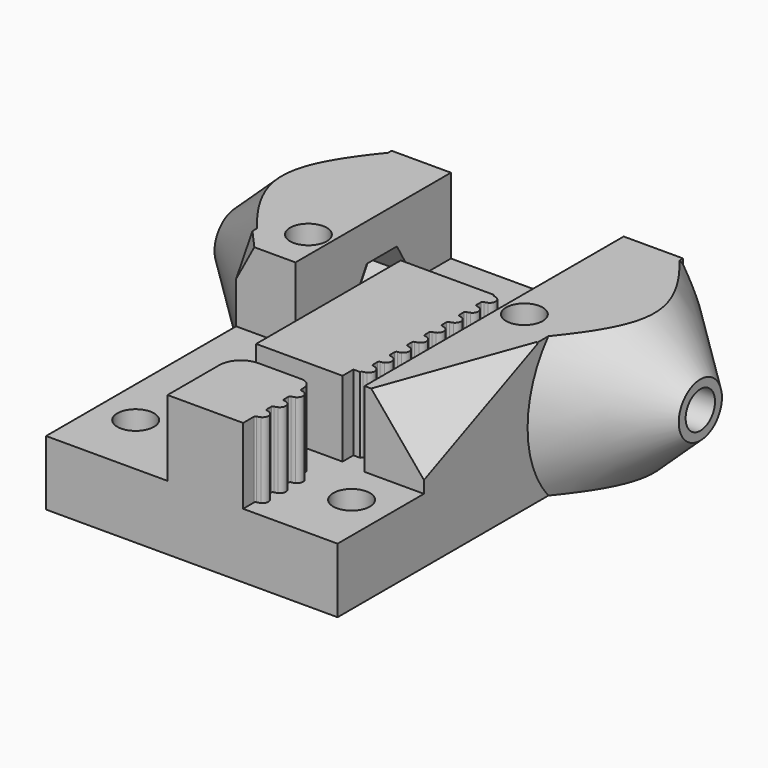
from build123d import *

# Parameters (mm, degrees)
SKETCH064_R          = 1.7
PAD017_DEPTH         = 13
POCKET034_DEPTH      = 7
POCKET035_DEPTH      = 8
POCKET036_DEPTH      = 8
SKETCH069_R          = 2.5
SKETCH070_R          = 10
SKETCH072_R          = 10
SKETCH071_R          = 2.5
SKETCH066_R          = 1.7
POCKET037_DEPTH      = 21.5010001
POCKET037_DEPTH_BACK = 21.5010001
SKETCH073_W          = 57.890867
SKETCH073_H          = 28.005435
SKETCH073_W_2        = 40
SKETCH073_H_2        = 13
POCKET038_DEPTH      = 21.5010001
POCKET038_DEPTH_BACK = 21.5010001
SKETCH074_W          = 10.751613
SKETCH074_H          = 15.361299
POCKET039_DEPTH      = 5
SKETCH075_W          = 5.428132
SKETCH075_H          = 4.529939
POCKET040_DEPTH      = 5
FILLET012_R          = 2
FILLET013_R          = 1


with BuildPart() as part:
    # Sketch064 → Pad017 (new body)
    with BuildSketch(Plane.XY):
        Polygon((-13.5, -16), (13.5, -16), (13.5, 6), (13.5, 24), (-13.5, 24), (-13.5, 6), align=None)
        with Locations((10, 10)):
            Circle(SKETCH064_R, mode=Mode.SUBTRACT)
        with Locations((-10, 10)):
            Circle(SKETCH064_R, mode=Mode.SUBTRACT)
        with Locations((-10, -10)):
            Circle(SKETCH064_R, mode=Mode.SUBTRACT)
        with Locations((10, -10)):
            Circle(SKETCH064_R, mode=Mode.SUBTRACT)
    extrude(amount=PAD017_DEPTH)

    # Sketch065 → Pocket034 (cut)
    with BuildSketch(Plane.XY.offset(13)):
        with BuildLine():
            Line((-2.25, -16), (-2.25, -8))
            Line((-2.25, -8), (4.25, -8))
            Line((4.25, -8), (4.75, -8))
            Line((4.75, -8), (4.75, -9.2530602323))
            ThreePointArc((4.75, -9.2530602323), (4.7888446964, -9.3567216153), (4.8862469586, -9.4093276235))
            ThreePointArc((5.1882022472, -9.5011261235), (5.0408688943, -9.4432396073), (4.8862469586, -9.4093276235))
            ThreePointArc((5.1882022472, -10.4988789324), (5.5, -10.0000025279), (5.1882022472, -9.5011261235))
            ThreePointArc((4.8804347826, -10.5914594193), (5.038062154, -10.5576142423), (5.1882022472, -10.4988789324))
            ThreePointArc((4.8804347826, -10.5914594193), (4.7872285883, -10.641270882), (4.75, -10.740177953))
            Line((4.75, -10.740177953), (4.75, -11.259822047))
            ThreePointArc((4.75, -11.259822047), (4.7872285883, -11.358729118), (4.8804347826, -11.4085405807))
            ThreePointArc((5.1882022472, -11.5011210676), (5.038062154, -11.4423857578), (4.8804347826, -11.4085405807))
            ThreePointArc((5.1882022472, -12.4988738766), (5.5, -11.9999974721), (5.1882022472, -11.5011210676))
            ThreePointArc((4.8804347826, -12.5914543635), (5.038062154, -12.5576091865), (5.1882022472, -12.4988738766))
            ThreePointArc((4.8804347826, -12.5914543635), (4.7872285883, -12.6412658262), (4.75, -12.7401728972))
            Line((4.75, -12.7401728972), (4.75, -13.259822047))
            ThreePointArc((4.75, -13.259822047), (4.7872285883, -13.358729118), (4.8804347826, -13.4085405807))
            ThreePointArc((5.1882022472, -13.5011210676), (5.038062154, -13.4423857578), (4.8804347826, -13.4085405807))
            ThreePointArc((5.1882022472, -14.4988738766), (5.5, -13.9999974721), (5.1882022472, -13.5011210676))
            ThreePointArc((4.8804347826, -14.5914543635), (5.038062154, -14.5576091865), (5.1882022472, -14.4988738766))
            ThreePointArc((4.8804347826, -14.5914543635), (4.7872285871, -14.6412658275), (4.75, -14.7401729006))
            Line((4.75, -14.7401729006), (4.75, -16))
            Line((4.75, -16), (13.5, -16))
            Line((13.5, -16), (13.5, -6))
            Line((13.5, -6), (8, -6))
            Line((8, -6), (8, 1))
            Line((8, 24), (8, 1))
            Line((8, 24), (-8, 24))
            Line((-8, 24), (-8, 6))
            Line((-8, 6), (-13.5, 6))
            Line((-13.5, 6), (-13.5, -16))
            Line((-13.5, -16), (-2.25, -16))
        make_face()
        with BuildLine():
            Line((-2.25, 11), (5.75, 11))
            Line((6.38, 11), (5.75, 11))
            ThreePointArc((6.38, 11), (6.4172285895, 10.9010929313), (6.5104347826, 10.8512814699))
            ThreePointArc((6.8182022472, 10.758700983), (6.668062154, 10.8174362929), (6.5104347826, 10.8512814699))
            ThreePointArc((6.8182022472, 9.760948174), (7.13, 10.2598245785), (6.8182022472, 10.758700983))
            ThreePointArc((6.5104347826, 9.6683676871), (6.668062154, 9.7022128642), (6.8182022472, 9.760948174))
            ThreePointArc((6.5104347826, 9.6683676871), (6.4172285883, 9.6185562244), (6.38, 9.5196491534))
            Line((6.38, 9.5196491534), (6.38, 9.0000000036))
            ThreePointArc((6.38, 9.0000000036), (6.4172285883, 8.9010929326), (6.5104347826, 8.8512814699))
            ThreePointArc((6.8182022368, 8.7587009881), (6.6680621484, 8.8174362945), (6.5104347826, 8.8512814699))
            ThreePointArc((6.8182022368, 7.760948169), (7.13, 8.2598245785), (6.8182022368, 8.7587009881))
            ThreePointArc((6.5104347826, 7.6683676871), (6.6680621484, 7.7022128625), (6.8182022368, 7.760948169))
            ThreePointArc((6.5104347826, 7.6683676871), (6.4172285883, 7.6185562244), (6.38, 7.5196491534))
            Line((6.38, 7.5196491534), (6.38, 7.0000000036))
            ThreePointArc((6.38, 7.0000000036), (6.4172285883, 6.9010929326), (6.5104347826, 6.8512814699))
            ThreePointArc((6.8182022585, 6.7587009775), (6.66806216, 6.8174362911), (6.5104347826, 6.8512814699))
            ThreePointArc((6.8182022585, 5.7609481795), (7.13, 6.2598245785), (6.8182022585, 6.7587009775))
            ThreePointArc((6.5104347826, 5.6683676871), (6.66806216, 5.702212866), (6.8182022585, 5.7609481795))
            ThreePointArc((6.5104347826, 5.6683676871), (6.4172285883, 5.6185562244), (6.38, 5.5196491534))
            Line((6.38, 5.5196491534), (6.38, 5.0000000036))
            ThreePointArc((6.38, 5.0000000036), (6.4172285883, 4.9010929326), (6.5104347826, 4.8512814699))
            ThreePointArc((6.8182022472, 4.758700983), (6.668062154, 4.8174362929), (6.5104347826, 4.8512814699))
            ThreePointArc((6.8182022472, 3.760948174), (7.13, 4.2598245785), (6.8182022472, 4.758700983))
            ThreePointArc((6.5104347826, 3.6683676871), (6.668062154, 3.7022128642), (6.8182022472, 3.760948174))
            ThreePointArc((6.5104347826, 3.6683676871), (6.4172285883, 3.6185562244), (6.38, 3.5196491534))
            Line((6.38, 3.5196491534), (6.38, 3.0000000036))
            ThreePointArc((6.38, 3.0000000036), (6.4172285883, 2.9010929326), (6.5104347826, 2.8512814699))
            ThreePointArc((6.8182022472, 2.758700983), (6.668062154, 2.8174362929), (6.5104347826, 2.8512814699))
            ThreePointArc((6.8182022472, 1.760948174), (7.13, 2.2598245785), (6.8182022472, 2.758700983))
            ThreePointArc((6.5104347826, 1.6683676871), (6.668062154, 1.7022128642), (6.8182022472, 1.760948174))
            ThreePointArc((6.5104347826, 1.6683676871), (6.4172285883, 1.6185562244), (6.38, 1.5196491534))
            Line((6.38, 1.5196491534), (6.38, 1.0000000036))
            ThreePointArc((6.38, 1.0000000036), (6.4172285883, 0.9010929326), (6.5104347826, 0.8512814699))
            ThreePointArc((6.818202267, 0.7587009734), (6.6680621645, 0.8174362897), (6.5104347826, 0.8512814699))
            ThreePointArc((6.818202267, -0.2390518163), (7.13, 0.2598245785), (6.818202267, 0.7587009734))
            ThreePointArc((6.5104347826, -0.3316323129), (6.6680621645, -0.2977871326), (6.818202267, -0.2390518163))
            ThreePointArc((6.5104347826, -0.3316323129), (6.4172285883, -0.3814437756), (6.38, -0.4803508466))
            Line((6.38, -0.4803508466), (6.38, -0.9999999964))
            ThreePointArc((6.38, -0.9999999964), (6.4172285883, -1.0989070674), (6.5104347826, -1.1487185301))
            ThreePointArc((6.8182022472, -1.241299017), (6.668062154, -1.1825637071), (6.5104347826, -1.1487185301))
            ThreePointArc((6.8182022472, -2.239051826), (7.13, -1.7401754215), (6.8182022472, -1.241299017))
            ThreePointArc((6.5104347826, -2.3316323129), (6.668062154, -2.2977871358), (6.8182022472, -2.239051826))
            ThreePointArc((6.5104347826, -2.3316323129), (6.4172285883, -2.3814437756), (6.38, -2.4803508466))
            Line((6.38, -2.4803508466), (6.38, -2.9999999964))
            ThreePointArc((6.38, -2.9999999964), (6.4172285883, -3.0989070674), (6.5104347826, -3.1487185301))
            ThreePointArc((6.8182022472, -3.241299017), (6.668062154, -3.1825637071), (6.5104347826, -3.1487185301))
            ThreePointArc((6.8182022472, -4.239051826), (7.13, -3.7401754215), (6.8182022472, -3.241299017))
            ThreePointArc((6.5104347826, -4.3316323129), (6.668062154, -4.2977871358), (6.8182022472, -4.239051826))
            ThreePointArc((6.5104347826, -4.3316323129), (6.4172285873, -4.3814437767), (6.38, -4.4803508497))
            Line((5.75, -4.4803508497), (6.38, -4.4803508497))
            Line((5.75, -4.4803508497), (5.75, -5.7401754215))
            Line((5.75, -5.7401754215), (-2.25, -5.7401754215))
            Line((-2.25, 11), (-2.25, -5.7401754215))
        make_face(mode=Mode.SUBTRACT)
    extrude(amount=-POCKET034_DEPTH, mode=Mode.SUBTRACT)

    # Sketch067 → Pocket035 (cut)
    with BuildSketch(Plane.YZ.offset(4)):
        Polygon((19.5, 6.5), (17.75, 9.5310889133), (14.25, 9.5310889133), (12.5, 6.5), (14.25, 3.4689110868), (17.75, 3.4689110868), align=None)
    extrude(amount=POCKET035_DEPTH, mode=Mode.SUBTRACT)

    # Sketch068 → Pocket036 (cut)
    with BuildSketch(Plane.YZ.offset(-4)):
        Polygon((19.5, 6.5), (17.75, 9.5310889133), (14.25, 9.5310889133), (12.5, 6.5), (14.25, 3.4689110868), (17.75, 3.4689110868), align=None)
    extrude(amount=-POCKET036_DEPTH, mode=Mode.SUBTRACT)

    # Sketch069 → AdditiveLoft002 section 0
    with BuildSketch(Plane.YZ.offset(21.5)):
        with Locations((16, 6.5)):
            Circle(SKETCH069_R)
    # Sketch070 → AdditiveLoft002 section 1
    with BuildSketch(Plane.YZ.offset(13.5)):
        with Locations((16, 6.5)):
            Circle(SKETCH070_R)
    loft()

    # Sketch072 → AdditiveLoft003 section 0
    with BuildSketch(Plane.YZ.offset(-13.5)):
        with Locations((16, 6.5)):
            Circle(SKETCH072_R)
    # Sketch071 → AdditiveLoft003 section 1
    with BuildSketch(Plane.YZ.offset(-21.5)):
        with Locations((16, 6.5)):
            Circle(SKETCH071_R)
    loft()

    # Sketch066 → Pocket037 (cut, two sides)
    with BuildSketch(Plane.YZ) as pocket037_sk:
        with Locations((16, 6.5)):
            Circle(SKETCH066_R)
    extrude(amount=-POCKET037_DEPTH, mode=Mode.SUBTRACT)
    extrude(pocket037_sk.sketch, amount=POCKET037_DEPTH_BACK, mode=Mode.SUBTRACT)

    # Sketch073 → Pocket038 (cut, two sides)
    with BuildSketch(Plane.YZ) as pocket038_sk:
        with Locations((4.9093215, 6.8553455)):
            Rectangle(SKETCH073_W, SKETCH073_H)
        with Locations((4, 6.5)):
            Rectangle(SKETCH073_W_2, SKETCH073_H_2, mode=Mode.SUBTRACT)
    extrude(amount=-POCKET038_DEPTH, mode=Mode.SUBTRACT)
    extrude(pocket038_sk.sketch, amount=POCKET038_DEPTH_BACK, mode=Mode.SUBTRACT)

    # Sketch074 (on DatumPlane) → Pocket039 (cut)
    with BuildSketch(Plane(origin=(11.8478062442, -4.3122488143, 9.8505836052), x_dir=(0.5785325453, -0.210568626, -0.7880107536), z_dir=(0.7404878903, -0.2695155509, 0.6156614753))):
        with Locations((-0.9861515, 3.6505885)):
            Rectangle(SKETCH074_W, SKETCH074_H)
    extrude(amount=POCKET039_DEPTH, mode=Mode.SUBTRACT)

    # Sketch075 (on DatumPlane) → Pocket040 (cut)
    with BuildSketch(Plane(origin=(0, 0, 25), x_dir=(0.2777686245, 0.2484410627, 0.9279663947), z_dir=(-0.6924826787, -0.6177293717, 0.3726636058))):
        with Locations((-14.088813, 13.6448355)):
            Rectangle(SKETCH075_W, SKETCH075_H)
    extrude(amount=POCKET040_DEPTH, mode=Mode.SUBTRACT)

    # Fillet012
    fillet012_edges = [part.edges().sort_by_distance(p)[0] for p in [
        (-2.25, -8, 9.5),
    ]]
    fillet(fillet012_edges, radius=FILLET012_R)

    # Fillet013
    fillet013_edges = [part.edges().sort_by_distance(p)[0] for p in [
        (4.75, -8, 9.5),
    ]]
    fillet(fillet013_edges, radius=FILLET013_R)


solid = part.part
